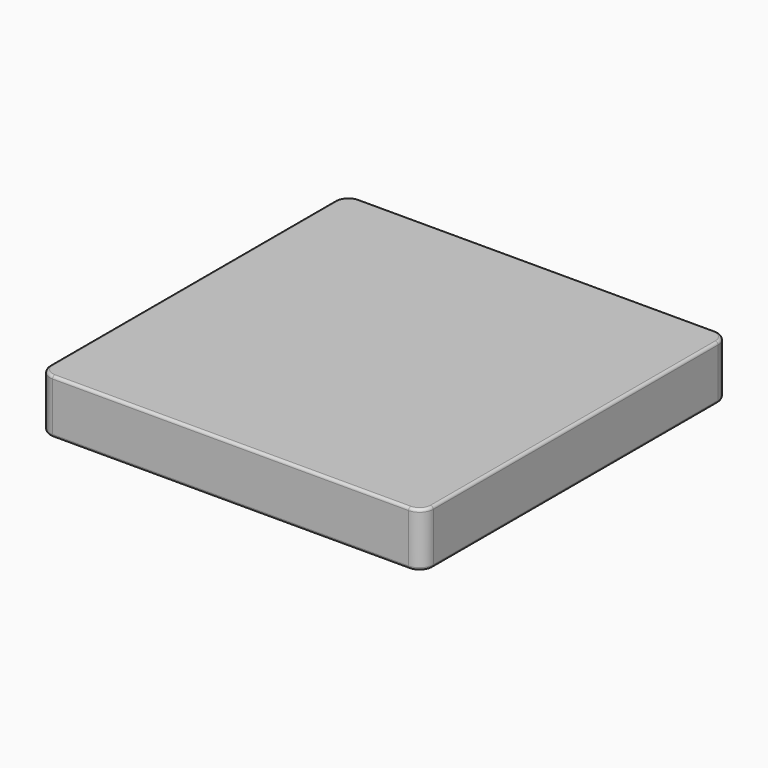
from build123d import *

# Parameters (mm, degrees)
F0_W     = 350
F0_H     = 350
F1_DEPTH = 49.5
F2_R     = 12.5
F3_R     = 2.5


with BuildPart() as f1:
    # F0 (on Top) → F1 (new body)
    with BuildSketch(Plane.XY):
        Rectangle(F0_W, F0_H)
    extrude(amount=F1_DEPTH)

    # F2
    f2_edges = [f1.edges().sort_by_distance(p)[0] for p in [
        (175, -175, 24.75),
        (175, 175, 24.75),
        (-175, 175, 24.75),
        (-175, -175, 24.75),
    ]]
    fillet(f2_edges, radius=F2_R)

    # F3
    f3_edges = [f1.edges().sort_by_distance(p)[0] for p in [
        (0, -175, 0),
        (0, -175, 49.5),
    ]]
    fillet(f3_edges, radius=F3_R)


solid = f1.part
